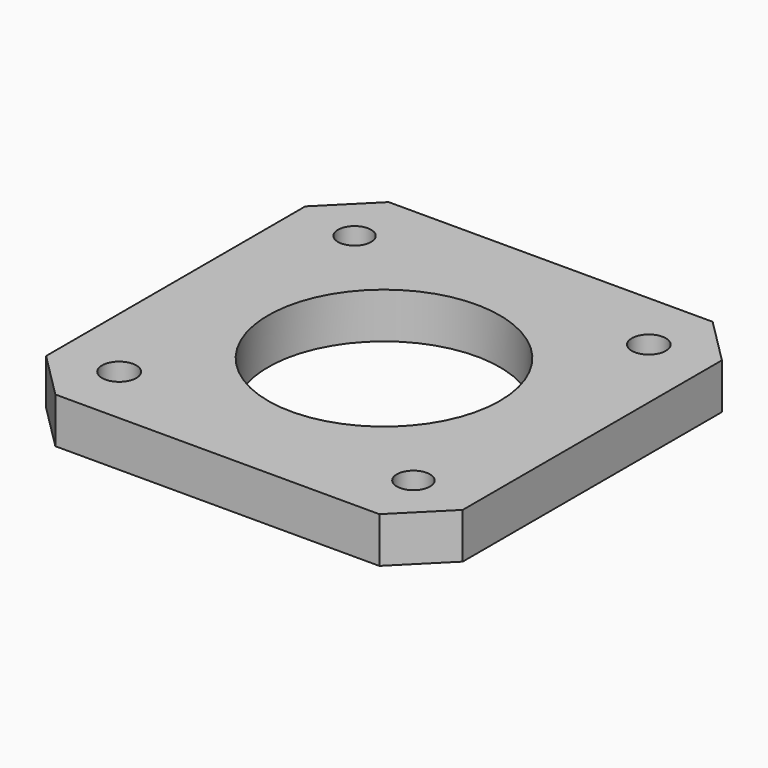
from build123d import *

# Parameters (mm, degrees)
F0_R     = 1.807625
F0_R_2   = 1.747826
F0_R_3   = 1.744513
F0_R_4   = 12.208217
F0_R_5   = 1.795841
F1_DEPTH = 4.8


with BuildPart() as f1:
    # F0 (on Top) → F1 (new body)
    with BuildSketch(Plane.XY):
        Polygon((21.95, -17.067157), (21.95, 17.067157), (17.067157, 21.95), (-17.067157, 21.95), (-21.95, 17.067157), (-21.95, -17.067157), (-17.067157, -21.95), (17.067157, -21.95), align=None)
        with Locations((-15.5, -15.5)):
            Circle(F0_R, mode=Mode.SUBTRACT)
        with Locations((15.5, -15.5)):
            Circle(F0_R_2, mode=Mode.SUBTRACT)
        with Locations((-15.5, 15.5)):
            Circle(F0_R_3, mode=Mode.SUBTRACT)
        Circle(F0_R_4, mode=Mode.SUBTRACT)
        with Locations((15.5, 15.5)):
            Circle(F0_R_5, mode=Mode.SUBTRACT)
    extrude(amount=F1_DEPTH)


solid = f1.part
